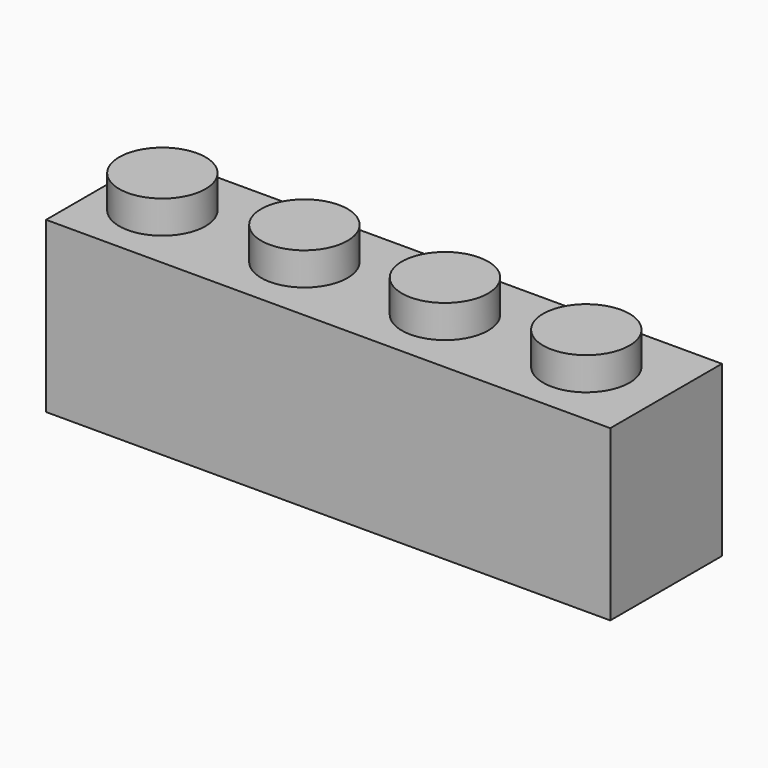
from build123d import *

# Parameters (mm, degrees)
F0_W     = 31.9
F0_H     = 9.57
F1_DEPTH = 7.89
F2_R     = 2.44
F3_DEPTH = 1.85
F4_R     = 1.555
F5_DEPTH = 8.38


with BuildPart() as f1:
    # F0 (on Front) → F1 (new body)
    with BuildSketch(Plane.XZ):
        with Locations((-10.049382, -0.941054)):
            Rectangle(F0_W, F0_H)
    extrude(amount=F1_DEPTH)

    # F2 (on face) → F3 (join)
    with BuildSketch(Plane.XY.offset(3.843946)):
        with Locations((-22.560522, -3.97)):
            Circle(F2_R)
        with Locations((-14.570678, -3.92)):
            Circle(F2_R)
        with Locations((-6.580835, -3.97)):
            Circle(F2_R)
        with Locations((1.409165, -3.97)):
            Circle(F2_R)
    extrude(amount=F3_DEPTH)

    # F4 (on face) → F5 (cut)
    with BuildSketch(Plane(origin=(0, 0, -5.726054), x_dir=(1, 0, 0), z_dir=(0, 0, -1))):
        with BuildLine():
            Line((-11.118799, 6.840625), (-24.567948, 6.840625))
            Line((-24.567948, 6.840625), (-24.567948, 1.076743))
            Line((-24.567948, 1.076743), (-11.118799, 1.076743))
            Line((-11.118799, 1.076743), (-11.118799, 2.733773))
            ThreePointArc((-11.118799, 2.733773), (-12.032356, 4.15031), (-11.118799, 5.566847))
            Line((-11.118799, 5.566847), (-11.118799, 6.840625))
        make_face()
        with Locations((-18.574382, 3.945)):
            Circle(F4_R, mode=Mode.SUBTRACT)
        with BuildLine():
            Line((4.891893, 6.840625), (-10.038799, 6.840625))
            Line((-10.038799, 6.840625), (-10.038799, 5.642185))
            ThreePointArc((-10.038799, 5.642185), (-9.23237, 5.081993), (-8.922356, 4.15031))
            ThreePointArc((-8.922356, 4.15031), (-9.23237, 3.218627), (-10.038799, 2.658435))
            Line((-10.038799, 2.658435), (-10.038799, 1.076743))
            Line((-10.038799, 1.076743), (4.891893, 1.076743))
            Line((4.891893, 1.076743), (4.891893, 6.840625))
        make_face()
        with Locations((-2.552682, 4.114562)):
            Circle(F4_R, mode=Mode.SUBTRACT)
    extrude(amount=-F5_DEPTH, mode=Mode.SUBTRACT)


solid = f1.part
